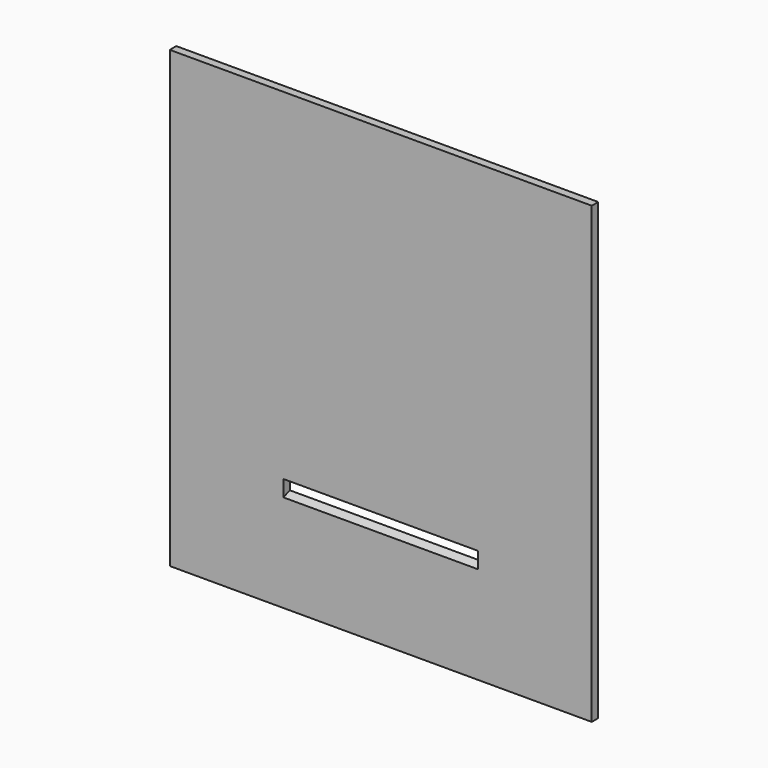
from build123d import *

# Parameters (mm, degrees)
F0_W     = 330.2
F0_H     = 355.6
F1_DEPTH = 6.35
F2_W     = 152.4
F2_H     = 12.7
F4_W     = 152.4
F4_H     = 12.7


with BuildPart() as f1:
    # F0 (on Front) → F1 (new body)
    with BuildSketch(Plane.XZ):
        Rectangle(F0_W, F0_H)
    extrude(amount=F1_DEPTH)

    # F2 (on face) → F5 section 0
    with BuildSketch(Plane.XZ.offset(6.35)):
        with Locations((0, -95.25)):
            Rectangle(F2_W, F2_H)
    # F4 (on face) → F5 section 1
    with BuildSketch(Plane.XZ):
        with Locations((0, -92.938789)):
            Rectangle(F4_W, F4_H)
    loft(mode=Mode.SUBTRACT)


solid = f1.part
